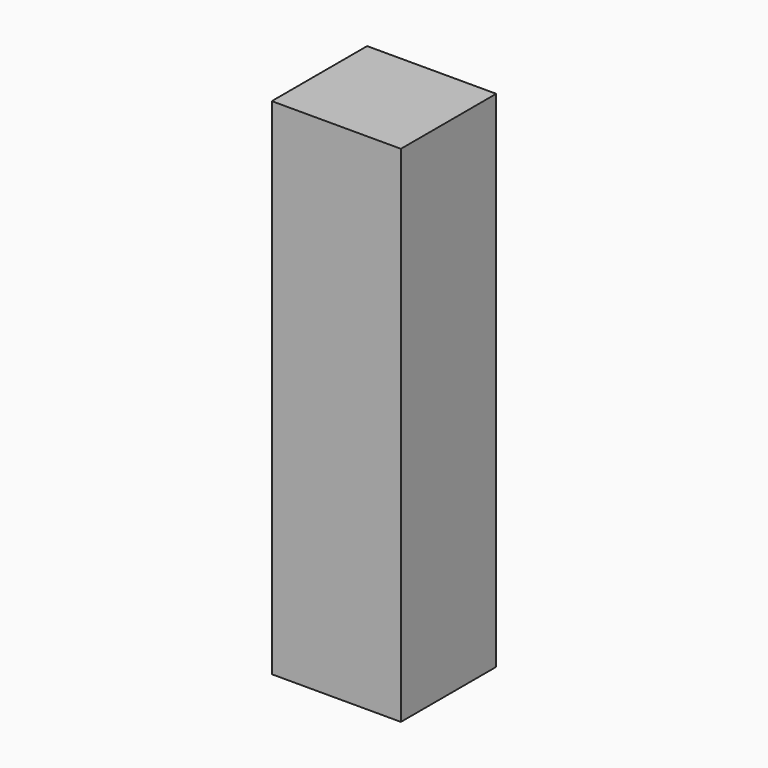
from build123d import *

# Parameters (mm, degrees)
F1_DEPTH = 35
F2_W     = 15
F2_H     = 254
F3_DEPTH = 60


with BuildPart() as f1:
    # F0 (on Right) → F1 (new body)
    with BuildSketch(Plane.YZ):
        with BuildLine():
            Line((0, 254), (0, 0))
            Line((0, 0), (60, 0))
            Line((60, 0), (60, 133.360773))
            ThreePointArc((60, 133.360773), (32.79815, 165.535249), (12.434966, 202.419911))
            ThreePointArc((12.434966, 202.419911), (10.913963, 203.546609), (11.548571, 205.329913))
            Line((11.548571, 205.329913), (25.72096, 208.454538))
            ThreePointArc((25.72096, 208.454538), (30.629217, 210.234525), (34.909535, 213.22421))
            Line((34.909535, 213.22421), (48.403102, 225.559899))
            ThreePointArc((48.403102, 225.559899), (49.665358, 225.965052), (50.795926, 225.272772))
            Line((50.795926, 225.272772), (52.84946, 222.214688))
            ThreePointArc((52.84946, 222.214688), (53.089616, 221.021687), (52.415852, 220.008292))
            Line((52.415852, 220.008292), (50, 218.386023))
            Line((50, 218.386023), (52, 218.386023))
            ThreePointArc((52, 218.386023), (57.656854, 220.729169), (60, 226.386023))
            Line((60, 226.386023), (60, 254))
            Line((60, 254), (0, 254))
        make_face()
    extrude(amount=F1_DEPTH)

    # F2 (on face) → F3 (join)
    with BuildSketch(Plane.XZ):
        with Locations((-7.5, 127)):
            Rectangle(F2_W, F2_H)
        with Locations((42.5, 127)):
            Rectangle(F2_W, F2_H)
    extrude(amount=-F3_DEPTH)


solid = f1.part
